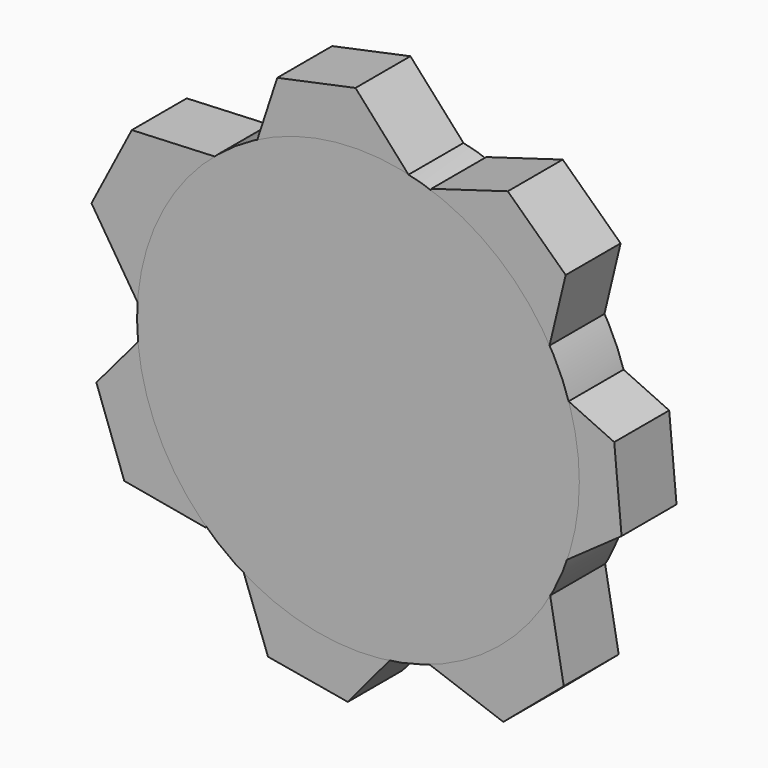
from build123d import *

# Parameters (mm, degrees)
F8_DEPTH = 12.7
F0_R     = 40.899023384


with BuildPart() as f8:
    # F7 (on Front) → F8 (new body)
    with BuildSketch(Plane.XZ):
        Polygon((34.929034287, 18.5445526985), (38.3720500526, 32.8904484959), (27.6696477349, 43.0451355133), (13.5242296514, 38.8539267333), (10.0812138858, 24.5080309359), (20.7836162035, 14.3533439185), align=None)
    extrude(amount=F8_DEPTH)


with BuildPart() as f8b:
    # F6 (on Front) → F8, piece 2 (new body)
    with BuildSketch(Plane.XZ):
        Polygon((36.5170137254, -14.8640945163), (48.711027089, -6.2565561775), (47.3536869053, 8.6075383388), (33.8023333581, 14.8640945163), (21.6083199946, 6.2565561775), (22.9656601783, -8.6075383388), align=None)
    extrude(amount=F8_DEPTH)


with BuildPart() as f8c:
    # F5 (on Front) → F8, piece 3 (new body)
    with BuildSketch(Plane.XZ):
        Polygon((26.8315154482, -43.6209968592), (38.0213182997, -34.1527008151), (35.4164348207, -19.7278992603), (21.6217484902, -14.7713937496), (10.4319456387, -24.2396897937), (13.0368291177, -38.6644913485), align=None)
    extrude(amount=F8_DEPTH)


with BuildPart() as f8d:
    # F4 (on Front) → F8, piece 4 (new body)
    with BuildSketch(Plane.XZ):
        Polygon((-21.8393272707, -33.0997500807), (-16.6748025468, -47.1587311238), (-1.9171054502, -49.715612036), (7.6760669225, -38.2135119051), (2.5115421987, -24.154530862), (-12.246154898, -21.5976499498), align=None)
    extrude(amount=F8_DEPTH)


with BuildPart() as f8e:
    # F3 (on Front) → F8, piece 5 (new body)
    with BuildSketch(Plane.XZ):
        Polygon((-48.4265006134, -12.8295531867), (-43.2619758895, -27.1754489841), (-28.255803327, -29.8757872734), (-18.4141554883, -18.2302297654), (-23.5786802122, -3.884333968), (-38.5848527747, -1.1839956786), align=None)
    extrude(amount=F8_DEPTH)


with BuildPart() as f8f:
    # F1 (on Front) → F8, piece 6 (new body)
    with BuildSketch(Plane.XZ):
        Polygon((4.7862858646, 25.6454034841), (9.3769735522, 39.7043839896), (-0.503116873, 50.7095264005), (-14.9738949858, 47.6556883061), (-19.5645826734, 33.5967078006), (-9.6844922482, 22.5915653897), align=None)
    extrude(amount=F8_DEPTH)


with BuildPart() as f8g:
    # F2 (on Front) → F8, piece 7 (new body)
    with BuildSketch(Plane.XZ):
        Polygon((-24.4778691455, 3.1388995099), (-17.0180016533, 17.4847974581), (-25.7119799704, 31.1181811894), (-41.8658257798, 30.4056669724), (-49.325693272, 16.0597690242), (-40.6317149549, 2.426385293), align=None)
    extrude(amount=F8_DEPTH)


with BuildPart() as f8h:
    # F0 (on Front) → F8, piece 8 (new body)
    with BuildSketch(Plane.XZ):
        Circle(F0_R)
    extrude(amount=F8_DEPTH)


solid = Compound([f8.part, f8b.part, f8c.part, f8d.part, f8e.part, f8f.part, f8g.part, f8h.part])
